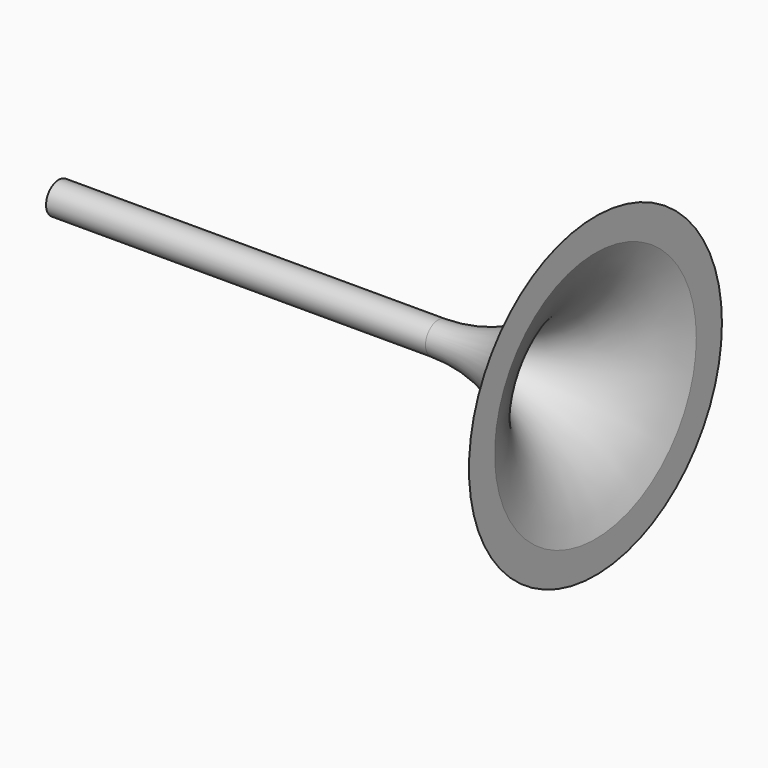
from build123d import *


with BuildPart() as f1:
    # F0 (on Top) → F1 (revolve)
    with BuildSketch(Plane.XY):
        with BuildLine():
            Line((72, 5), (-48, 5))
            Line((-48, 5), (-48, 3))
            Line((-48, 3), (72, 3))
            ThreePointArc((72, 3), (102.960436, 13.2214), (121.749372, 39.867254))
            Line((121.749372, 39.867254), (121.749372, 50))
            ThreePointArc((121.749372, 50), (105.54102, 17.919008), (72, 5))
        make_face()
    revolve(axis=Axis((4.884046, 0, 0), (1, 0, 0)))


solid = f1.part
